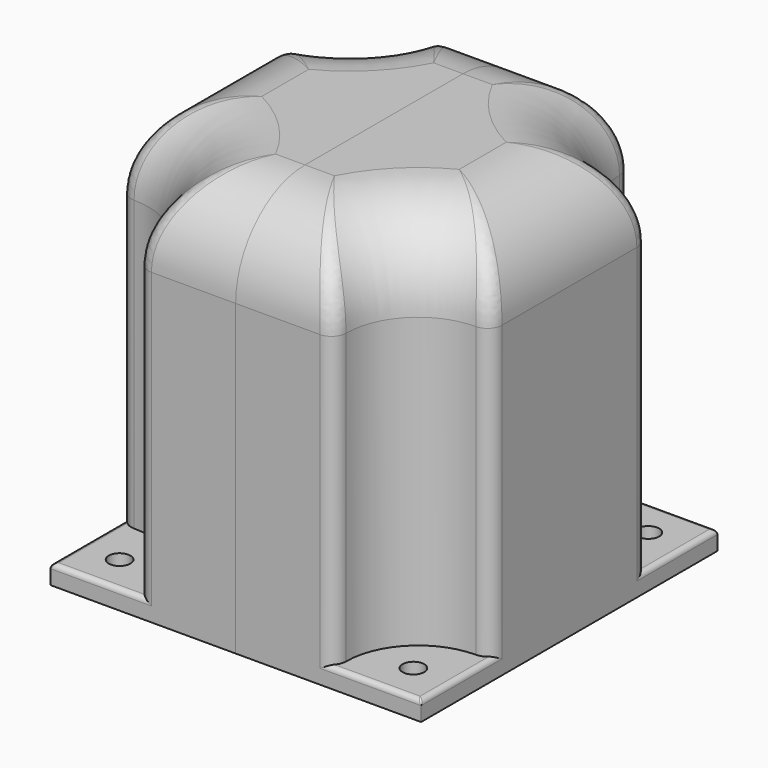
from build123d import *

# Parameters (mm, degrees)
PAD_DEPTH       = 75
FILLET_R        = 15
THICKNESS_T     = 3
SKETCH001_W     = 77
SKETCH001_H     = 77
PAD002_DEPTH    = 4
SKETCH002_R     = 2.25
POCKET_DEPTH    = 82.001
FILLET001_R     = 0.1
FILLET002_R     = 1
FILLET003_R     = 0.1
FILLET004_R     = 1
FILLET005_R     = 0.1
FILLET006_R     = 0.1
FILLET007_R     = 1
SKETCH003_W     = 95.515434
SKETCH003_H     = 146.923517
POCKET001_DEPTH = 77.001
BOX_W           = 20
BOX_H           = 8
BOX_DEPTH       = 6.5
FILLET008_R     = 1


with BuildPart() as body:
    # Sketch → Pad (new body)
    with BuildSketch(Plane.XY):
        with BuildLine():
            Line((-17.5, 35.5), (17.5, 35.5))
            ThreePointArc((17.5, 35.5), (22.772078, 22.772078), (35.5, 17.5))
            Line((35.5, 17.5), (35.5, -17.5))
            ThreePointArc((35.5, -17.5), (22.772078, -22.772078), (17.5, -35.5))
            Line((17.5, -35.5), (-17.5, -35.5))
            ThreePointArc((-17.5, -35.5), (-22.772078, -22.772078), (-35.5, -17.5))
            Line((-35.5, 17.5), (-35.5, -17.5))
            ThreePointArc((-35.5, 17.5), (-22.772078, 22.772078), (-17.5, 35.5))
        make_face()
    extrude(amount=PAD_DEPTH)

    # Fillet
    fillet_edges = [body.edges().sort_by_distance(p)[0] for p in [
        (-22.772078, 22.772078, 75),
        (0, 35.5, 75),
        (22.772078, 22.772078, 75),
        (35.5, 0, 75),
        (22.772078, -22.772078, 75),
        (0, -35.5, 75),
        (-22.772078, -22.772078, 75),
        (-35.5, 0, 75),
    ]]
    fillet(fillet_edges, radius=FILLET_R)

    # Thickness
    thickness_openings = [body.faces().sort_by_distance(p)[0] for p in [
        (0, 0, 0),
    ]]
    offset(amount=THICKNESS_T, openings=thickness_openings)

    # Sketch001 (on Face18 of Thickness) → Pad002 (join)
    with BuildSketch(Plane(origin=(0, 0, 0), x_dir=(1, 0, 0), z_dir=(0, 0, -1))):
        Rectangle(SKETCH001_W, SKETCH001_H)
        with BuildLine():
            Line((-17.5, 35.5), (17.5, 35.5))
            ThreePointArc((17.5, 35.5), (22.772078, 22.772078), (35.5, 17.5))
            Line((35.5, 17.5), (35.5, -17.5))
            ThreePointArc((35.5, -17.5), (22.772078, -22.772078), (17.5, -35.5))
            Line((17.5, -35.5), (-17.5, -35.5))
            ThreePointArc((-17.5, -35.5), (-22.772078, -22.772078), (-35.5, -17.5))
            Line((-35.5, 17.5), (-35.5, -17.5))
            ThreePointArc((-35.5, 17.5), (-22.772078, 22.772078), (-17.5, 35.5))
        make_face(mode=Mode.SUBTRACT)
    extrude(amount=PAD002_DEPTH)

    # Sketch002 (on Face12 of Pad002) → Pocket (cut, through all)
    with BuildSketch(Plane(origin=(0, 0, -4), x_dir=(1, 0, 0), z_dir=(0, 0, -1))):
        with Locations((-30.5, 30.5)):
            Circle(SKETCH002_R)
        with Locations((30.5, 30.5)):
            Circle(SKETCH002_R)
        with Locations((30.5, -30.5)):
            Circle(SKETCH002_R)
        with Locations((-30.5, -30.5)):
            Circle(SKETCH002_R)
    extrude(amount=-POCKET_DEPTH, mode=Mode.SUBTRACT)

    # Fillet001
    fillet001_edges = [body.edges().sort_by_distance(p)[0] for p in [
        (-38.5, 38.5, -2),
    ]]
    fillet(fillet001_edges, radius=FILLET001_R)

    # Fillet002
    fillet002_edges = [body.edges().sort_by_distance(p)[0] for p in [
        (-38.470711, 38.470711, 0),
    ]]
    fillet(fillet002_edges, radius=FILLET002_R)

    # Fillet003
    fillet003_edges = [body.edges().sort_by_distance(p)[0] for p in [
        (38.5, 38.5, -2),
    ]]
    fillet(fillet003_edges, radius=FILLET003_R)

    # Fillet004
    fillet004_edges = [body.edges().sort_by_distance(p)[0] for p in [
        (38.470711, 38.470711, 0),
    ]]
    fillet(fillet004_edges, radius=FILLET004_R)

    # Fillet005
    fillet005_edges = [body.edges().sort_by_distance(p)[0] for p in [
        (38.5, -38.5, -2),
    ]]
    fillet(fillet005_edges, radius=FILLET005_R)

    # Fillet006
    fillet006_edges = [body.edges().sort_by_distance(p)[0] for p in [
        (-38.5, -38.5, -2),
    ]]
    fillet(fillet006_edges, radius=FILLET006_R)

    # Fillet007
    fillet007_edges = [body.edges().sort_by_distance(p)[0] for p in [
        (-38.470711, -38.470711, 0),
    ]]
    fillet(fillet007_edges, radius=FILLET007_R)

    # Sketch003 (on Face7 of Fillet007) → Pocket001 (cut, through all)
    with BuildSketch(Plane.XZ.offset(38.5)):
        with Locations((47.757717, 51.425555)):
            Rectangle(SKETCH003_W, SKETCH003_H)
    extrude(amount=-POCKET001_DEPTH, mode=Mode.SUBTRACT)


with BuildPart() as part_mirroring:
    # Part__Mirroring: instance of Body
    add(body.part.mirror(Plane(origin=(2e-06, 0, 27), x_dir=(0, -1, 0), z_dir=(1, 0, 0))))


with BuildPart() as cube:
    # Box → Box (new body)
    with BuildSketch(Plane(origin=(-46, -4.4, -4.1), x_dir=(1, 0, 0), z_dir=(0, 0, 1))):
        with Locations((10, 4)):
            Rectangle(BOX_W, BOX_H)
    extrude(amount=BOX_DEPTH)


with BuildPart() as fillet008:
    # Cut base: copy of Body
    add(body.part)

    # Cut: cut Cube
    add(cube.part, mode=Mode.SUBTRACT)

    # Fillet008
    fillet008_edges = [fillet008.edges().sort_by_distance(p)[0] for p in [
        (-37, -4.4, 2.4),
        (-37, 3.6, 2.4),
    ]]
    fillet(fillet008_edges, radius=FILLET008_R)


solid = Compound([part_mirroring.part, fillet008.part])
